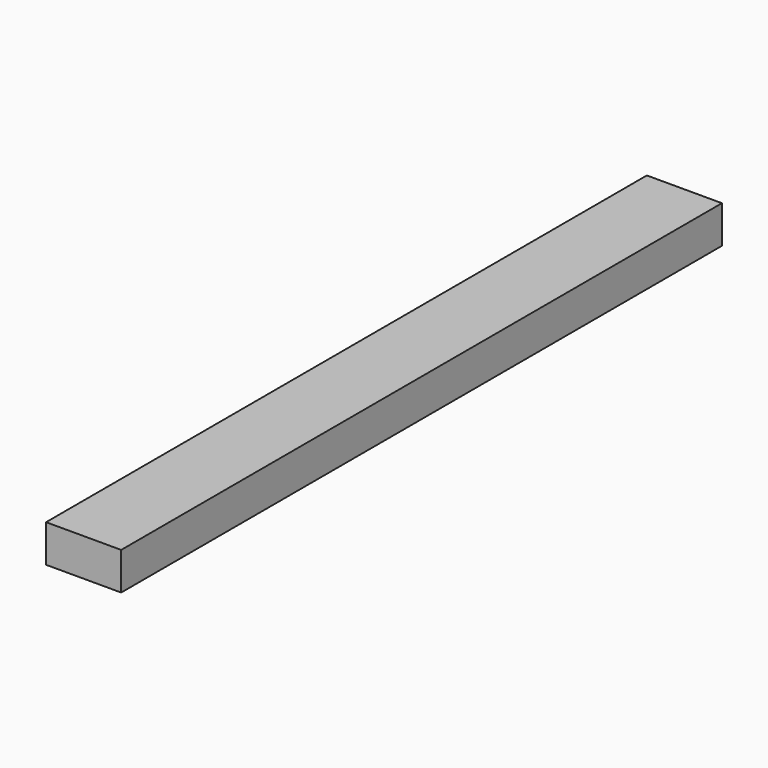
from build123d import *

# Parameters (mm, degrees)
F0_W     = 38.1
F0_H     = 19.05
F1_DEPTH = 107.95
F2_DEPTH = 190.5


with BuildPart() as f1:
    # F0 (on Front) → F1 (new body, symmetric)
    with BuildSketch(Plane.XZ):
        Rectangle(F0_W, F0_H)
    extrude(amount=F1_DEPTH, both=True)


with BuildPart() as f2:
    # F0 (on Front) → F2 (new body, symmetric)
    with BuildSketch(Plane.XZ):
        Rectangle(F0_W, F0_H)
    extrude(amount=F2_DEPTH, both=True)


solid = Compound([f1.part, f2.part])
